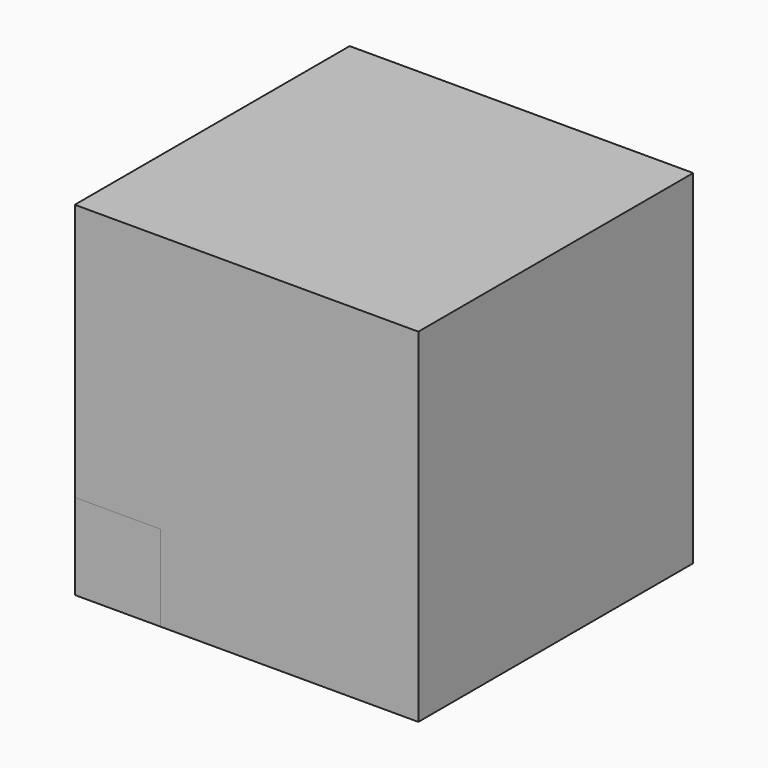
from build123d import *

# Parameters (mm, degrees)
BOX_W        = 20
BOX_H        = 20
BOX_DEPTH    = 20
BOX001_W     = 5
BOX001_H     = 5
BOX001_DEPTH = 5


with BuildPart() as obj1:
    # Box → Box (new body)
    with BuildSketch(Plane.XY):
        with Locations((10, 10)):
            Rectangle(BOX_W, BOX_H)
    extrude(amount=BOX_DEPTH)


with BuildPart() as cubo_int:
    # Box001 → Box001 (new body)
    with BuildSketch(Plane.XY):
        with Locations((2.5, 2.5)):
            Rectangle(BOX001_W, BOX001_H)
    extrude(amount=BOX001_DEPTH)


solid = Compound([obj1.part, cubo_int.part])
